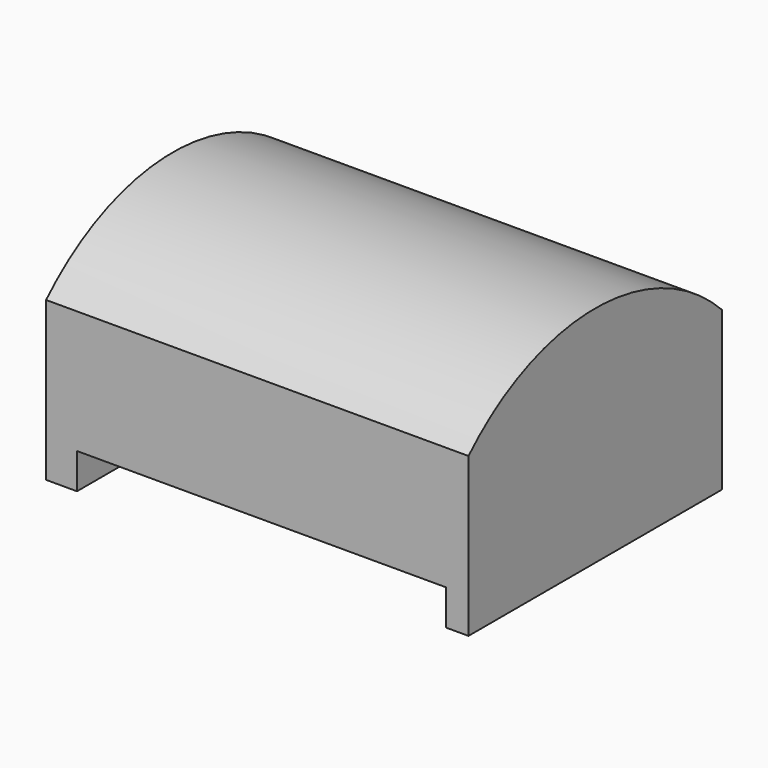
from build123d import *

# Parameters (mm, degrees)
F1_DEPTH      = 200
F1_DEPTH_BACK = 200
F2_W          = 349.603146
F2_H          = 33.597644
F3_DEPTH      = 400


with BuildPart() as f1:
    # F0 (on Right) → F1 (new body, two sides)
    with BuildSketch(Plane.YZ) as f1_sk:
        with BuildLine():
            Line((0, 150), (0, 0))
            Line((0, 0), (300, 0))
            Line((300, 0), (300, 150))
            ThreePointArc((300, 150), (150, 212.132034), (0, 150))
        make_face()
    extrude(amount=F1_DEPTH)
    extrude(f1_sk.sketch, amount=-F1_DEPTH_BACK)

    # F2 (on face) → F3 (cut)
    with BuildSketch(Plane.XZ):
        with Locations((4.065156, 16.798822)):
            Rectangle(F2_W, F2_H)
    extrude(amount=-F3_DEPTH, mode=Mode.SUBTRACT)


solid = f1.part
